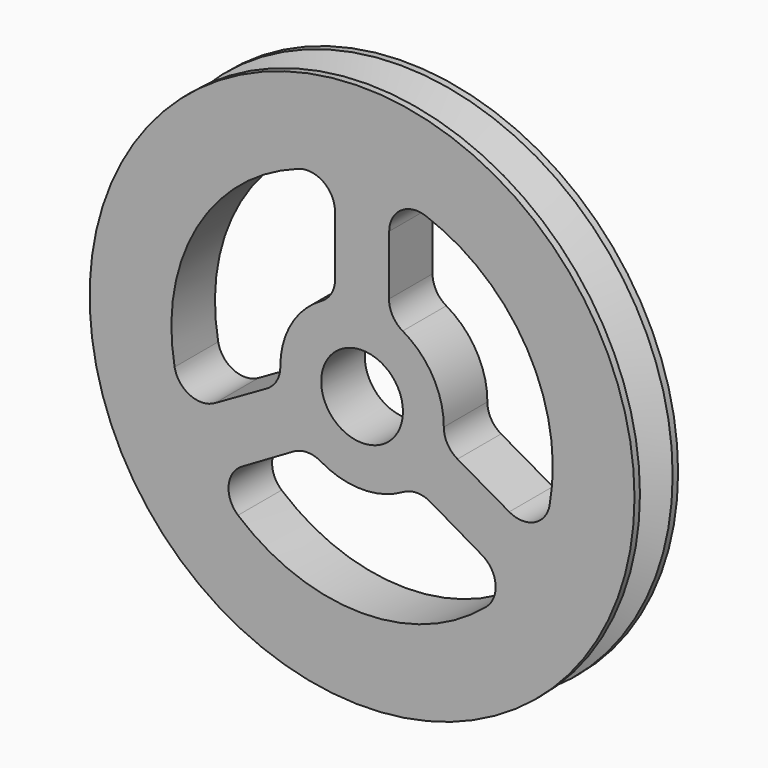
from build123d import *

# Parameters (mm, degrees)
F0_R     = 10
F0_R_2   = 1.5
F1_DEPTH = 1


with BuildPart() as f1:
    # F0 (on Front) → F1 (new body, symmetric)
    with BuildSketch(Plane.XZ):
        Circle(F0_R)
        with BuildLine():
            ThreePointArc((-2.514889, -2.592907), (-2.011909, -2.457202), (-1.508927, -2.592901))
            ThreePointArc((-1.508927, -2.592901), (0, -3), (1.508927, -2.592901))
            ThreePointArc((1.508927, -2.592901), (2.011909, -2.457202), (2.514889, -2.592907))
            Line((2.514889, -2.592907), (4.405493, -3.693166))
            ThreePointArc((4.405493, -3.693166), (4.89841, -4.467042), (4.552924, -5.317037))
            ThreePointArc((4.552924, -5.317037), (0, -7), (-4.552924, -5.317037))
            ThreePointArc((-4.552924, -5.317037), (-4.89841, -4.467042), (-4.405493, -3.693166))
            Line((-4.405493, -3.693166), (-2.514889, -2.592907))
        make_face(mode=Mode.SUBTRACT)
        with BuildLine():
            ThreePointArc((-6.881151, -1.28443), (-6.062178, 3.5), (-2.328227, 6.601466))
            ThreePointArc((-2.328227, 6.601466), (-1.419367, 6.475669), (-0.995629, 5.661851))
            Line((-0.995629, 5.661851), (-0.988079, 3.474412))
            ThreePointArc((-0.988079, 3.474412), (-1.122045, 2.970966), (-1.491055, 2.60322))
            ThreePointArc((-1.491055, 2.60322), (-2.598076, 1.5), (-2.999982, -0.010319))
            ThreePointArc((-2.999982, -0.010319), (-3.133954, -0.513764), (-3.502968, -0.881504))
            Line((-3.502968, -0.881504), (-5.401122, -1.968686))
            ThreePointArc((-5.401122, -1.968686), (-6.317777, -2.008627), (-6.881151, -1.28443))
        make_face(mode=Mode.SUBTRACT)
        Circle(F0_R_2, mode=Mode.SUBTRACT)
        with BuildLine():
            ThreePointArc((1.491055, 2.60322), (1.122045, 2.970966), (0.988079, 3.474412))
            Line((0.988079, 3.474412), (0.995629, 5.661851))
            ThreePointArc((0.995629, 5.661851), (1.419367, 6.475669), (2.328227, 6.601466))
            ThreePointArc((2.328227, 6.601466), (6.062178, 3.5), (6.881151, -1.28443))
            ThreePointArc((6.881151, -1.28443), (6.317777, -2.008627), (5.401122, -1.968686))
            Line((5.401122, -1.968686), (3.502968, -0.881504))
            ThreePointArc((3.502968, -0.881504), (3.133954, -0.513764), (2.999982, -0.010319))
            ThreePointArc((2.999982, -0.010319), (2.598076, 1.5), (1.491055, 2.60322))
        make_face(mode=Mode.SUBTRACT)
    extrude(amount=F1_DEPTH, both=True)

    # F2 (on Right) → F3 (revolve, cut)
    with BuildSketch(Plane.YZ):
        Polygon((0.75, 10), (0, 10), (0, 8.5), align=None)
        Polygon((0, 8.5), (0, 10), (-0.75, 10), align=None)
    revolve(axis=Axis((0, -0.179222, 0), (0, -1, 0)), mode=Mode.SUBTRACT)


solid = f1.part
